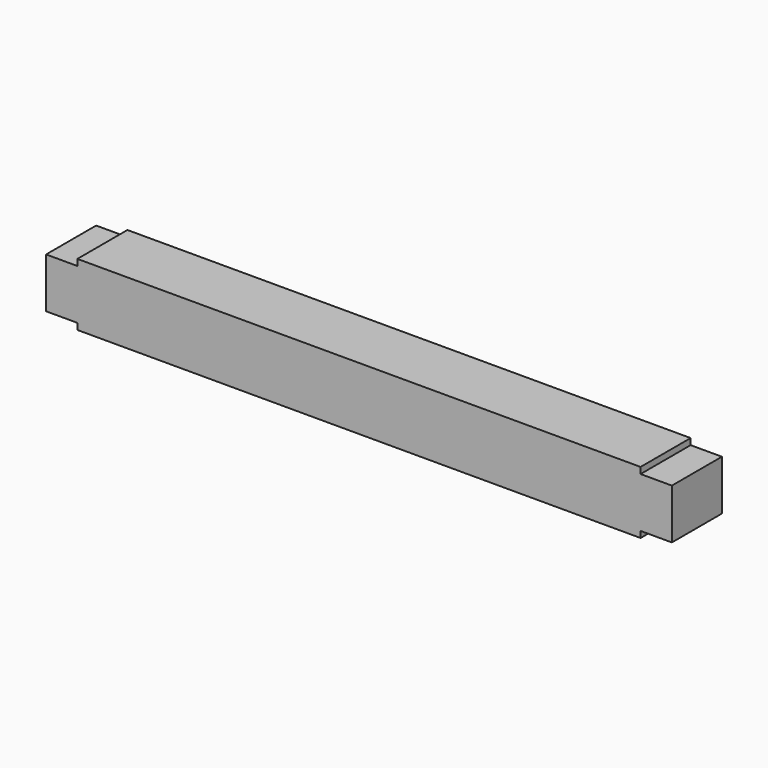
from build123d import *

# Parameters (mm, degrees)
F0_W     = 1000
F0_H     = 100
F1_DEPTH = 100
F2_W     = 50
F2_H     = 10
F3_DEPTH = 100.001


with BuildPart() as f1:
    # F0 (on Front) → F1 (new body)
    with BuildSketch(Plane.XZ):
        with Locations((-899.628264, 50)):
            Rectangle(F0_W, F0_H)
    extrude(amount=F1_DEPTH)

    # F2 (on face) → F3 (cut, through all)
    with BuildSketch(Plane.XZ.offset(100)):
        with Locations((-424.628264, 95)):
            Rectangle(F2_W, F2_H)
        with Locations((-424.628264, 5)):
            Rectangle(F2_W, F2_H)
        with Locations((-1374.628264, 95)):
            Rectangle(F2_W, F2_H)
        with Locations((-1374.628264, 5)):
            Rectangle(F2_W, F2_H)
    extrude(amount=-F3_DEPTH, mode=Mode.SUBTRACT)


solid = f1.part
